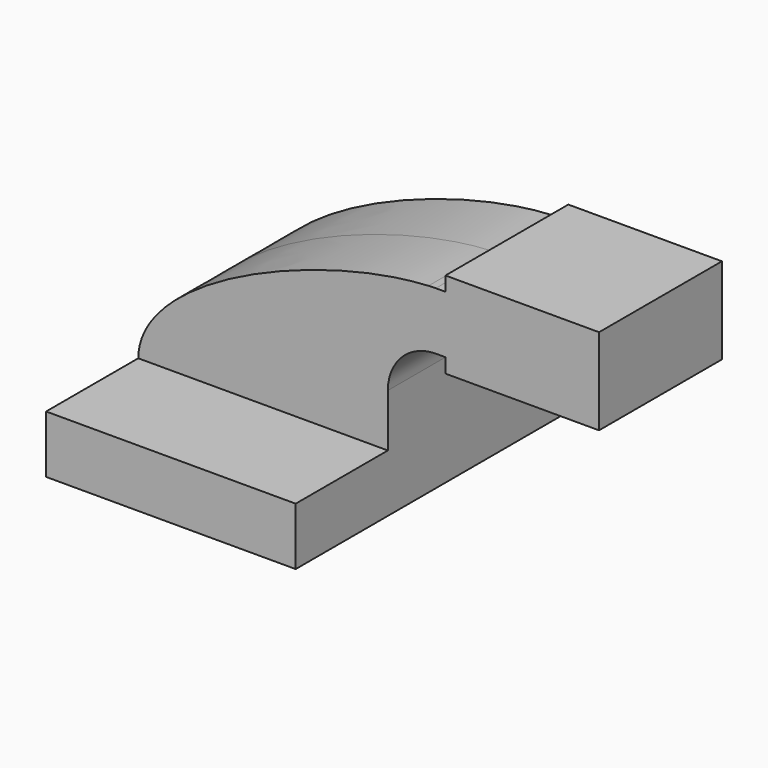
from build123d import *

# Parameters (mm, degrees)
F1_DEPTH = 63.5
F0_W     = 25.4
F0_H     = 4.7752
F0_H_2   = 19.05
F0_H_3   = 4.7498
F2_DEPTH = 25.4


with BuildPart() as f1:
    # F0 (on Front) → F1 (new body, symmetric)
    with BuildSketch(Plane.XZ):
        Polygon((-41.275, -9.525), (41.275, -9.525), (41.275, 9.525), (22.225, 9.525), (-41.275, 9.525), align=None)
    extrude(amount=F1_DEPTH, both=True)

    # F0 (on Front) → F2 (join, symmetric)
    with BuildSketch(Plane.XZ):
        Polygon((-41.275, -9.525), (41.275, -9.525), (41.275, 9.525), (22.225, 9.525), (-41.275, 9.525), align=None)
        with BuildLine():
            Line((22.225, 9.525), (41.275, 9.525))
            Line((41.275, 9.525), (41.275, 27.0002))
            ThreePointArc((41.275, 27.0002), (45.9246798487, 38.2255201513), (57.15, 42.8752))
            Line((57.15, 42.8752), (60.325, 42.8752))
            Line((60.325, 42.8752), (60.325, 61.9252))
            Line((60.325, 61.9252), (57.15, 61.9252))
            add(Edge.make_bspline(
                [(54.7155660835, 61.8402510405), (55.5417802596, 61.8812323072), (56.3536366675, 61.9096388708), (57.15, 61.9252)],
                knots=[108.932762341, 108.932762341, 108.932762341, 108.932762341, 111.5045361635, 111.5045361635, 111.5045361635, 111.5045361635], degree=3))
            ThreePointArc((54.7155660835, 61.8402510405), (31.6080910117, 50.8196565478), (22.225, 27.0002))
            Line((22.225, 27.0002), (22.225, 9.525))
        make_face()
        with BuildLine():
            add(Edge.make_bspline(
                [(-41.275, 9.525), (-41.0359900889, 35.8080333055), (19.7195677178, 60.1044053224), (54.7155660835, 61.8402510405)],
                knots=[0, 0, 0, 0, 108.932762341, 108.932762341, 108.932762341, 108.932762341], degree=3))
            Line((-41.275, 9.525), (22.225, 9.525))
            Line((22.225, 9.525), (22.225, 27.0002))
            ThreePointArc((22.225, 27.0002), (31.6080910117, 50.8196565478), (54.7155660835, 61.8402510405))
        make_face()
        with BuildLine():
            ThreePointArc((57.15, 61.9252), (55.9320421991, 61.9039562992), (54.7155660835, 61.8402510405))
            add(Edge.make_bspline(
                [(54.7155660835, 61.8402510405), (55.5417802596, 61.8812323072), (56.3536366675, 61.9096388708), (57.15, 61.9252)],
                knots=[108.932762341, 108.932762341, 108.932762341, 108.932762341, 111.5045361635, 111.5045361635, 111.5045361635, 111.5045361635], degree=3))
        make_face()
        with Locations((73.025, 40.4876)):
            Rectangle(F0_W, F0_H)
        with Locations((73.025, 52.4002)):
            Rectangle(F0_W, F0_H_2)
        with Locations((73.025, 64.3001)):
            Rectangle(F0_W, F0_H_3)
        Polygon((85.725, 61.9252), (85.725, 42.8752), (85.725, 38.1), (111.125, 38.1), (111.125, 66.675), (85.725, 66.675), align=None)
    extrude(amount=F2_DEPTH, both=True)


solid = f1.part
